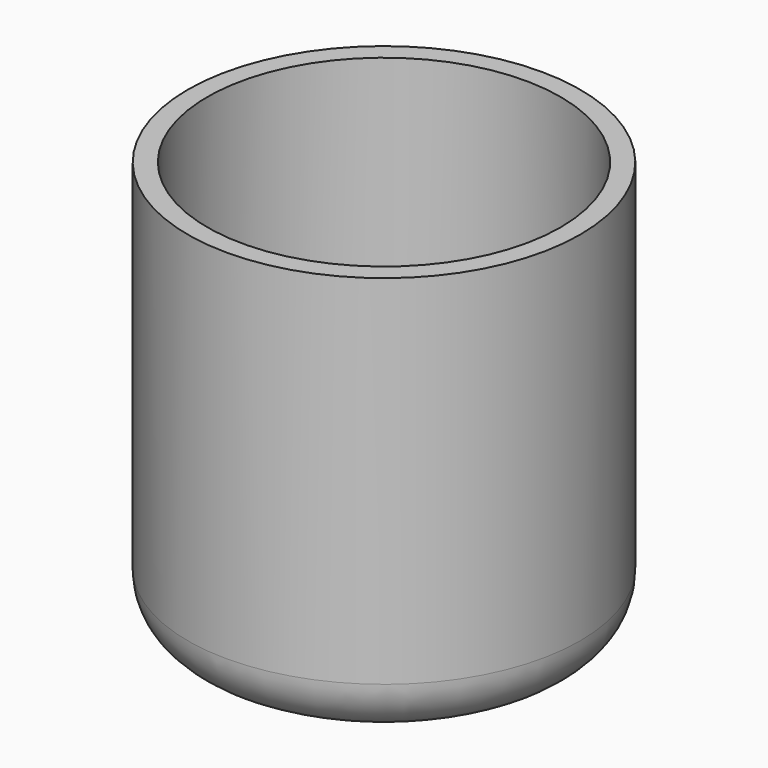
from build123d import *

# Parameters (mm, degrees)
F0_R     = 50
F0_R_2   = 45
F1_DEPTH = 100
F0_R_3   = 40
F2_DEPTH = 5
F3_R     = 13.8817279836
F4_DEPTH = 50


with BuildPart() as f1:
    # F0 (on Top) → F1 (new body)
    with BuildSketch(Plane.XY):
        Circle(F0_R)
        Circle(F0_R_2, mode=Mode.SUBTRACT)
    extrude(amount=F1_DEPTH)

    # F0 (on Top) → F2 (join)
    with BuildSketch(Plane.XY):
        Circle(F0_R)
        Circle(F0_R_2, mode=Mode.SUBTRACT)
        Circle(F0_R_2)
        Circle(F0_R_3, mode=Mode.SUBTRACT)
        Circle(F0_R_3)
    extrude(amount=-F2_DEPTH)

    # F3
    f3_edges = [f1.edges().sort_by_distance(p)[0] for p in [
        (-50, 0, -5),
    ]]
    fillet(f3_edges, radius=F3_R)

    # F0 (on Top) → F4 (join)
    with BuildSketch(Plane.XY):
        Circle(F0_R_2)
        Circle(F0_R_3, mode=Mode.SUBTRACT)
    extrude(amount=F4_DEPTH)


solid = f1.part
